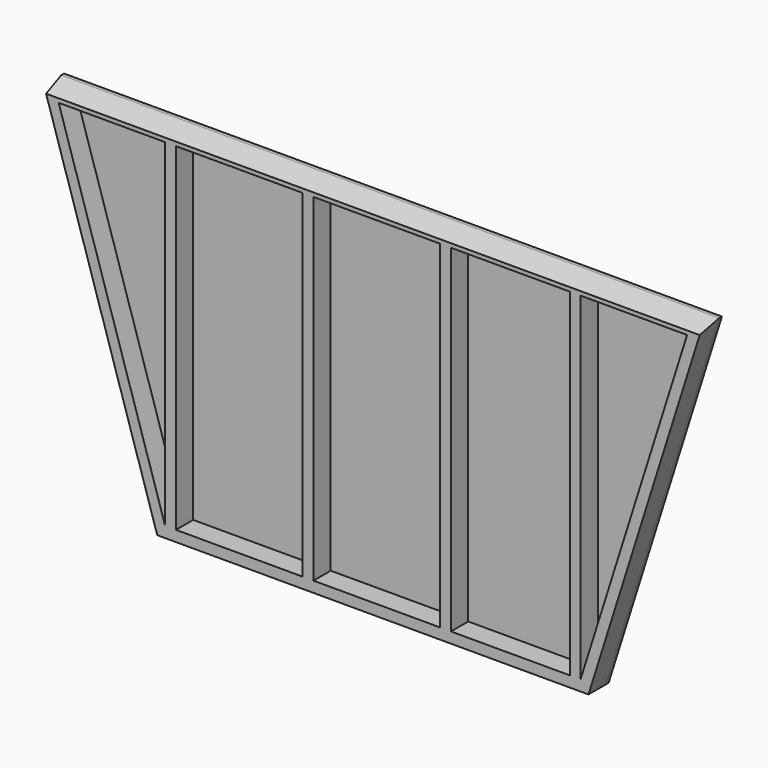
from build123d import *

# Parameters (mm, degrees)
F0_W     = 3.81
F0_H     = 119.38
F1_DEPTH = 7.62
F3_DEPTH = 2159
F5_DEPTH = 1.27


with BuildPart() as f1:
    # F0 (on Front) → F1 (new body)
    with BuildSketch(Plane.XZ):
        Polygon((-40.042946, -127), (0, 0), (-232.485892, 0), (-192.442946, -127), align=None)
        Polygon((-42.836554, -3.81), (-5.196184, -3.81), (-42.836554, -123.19), (-46.646554, -123.19), (-88.640766, -123.19), (-92.450766, -123.19), (-137.238586, -123.19), (-141.048586, -123.19), (-185.839339, -123.19), (-189.649339, -123.19), (-227.289708, -3.81), (-189.649339, -3.81), (-185.839339, -3.81), (-141.048586, -3.81), (-137.238586, -3.81), (-92.450766, -3.81), (-88.640766, -3.81), (-46.646554, -3.81), align=None, mode=Mode.SUBTRACT)
        with Locations((-139.143586, -63.5)):
            Rectangle(F0_W, F0_H)
        with Locations((-90.545766, -63.5)):
            Rectangle(F0_W, F0_H)
        with Locations((-187.744339, -63.5)):
            Rectangle(F0_W, F0_H)
        with Locations((-44.741554, -63.5)):
            Rectangle(F0_W, F0_H)
    extrude(amount=F1_DEPTH)

    # F2 (on Right) → F3 (cut)
    with BuildSketch(Plane.YZ):
        Polygon((-12.7, -4.004295), (0, 0), (-12.7, 0), align=None)
    extrude(amount=-F3_DEPTH, mode=Mode.SUBTRACT)


with BuildPart() as f5:
    # F4 (on Front) → F5 (new body)
    with BuildSketch(Plane.XZ):
        Polygon((-40.042946, -127), (0, 0), (-232.485892, 0), (-192.442946, -127), align=None)
    extrude(amount=-F5_DEPTH)


solid = Compound([f1.part, f5.part])
